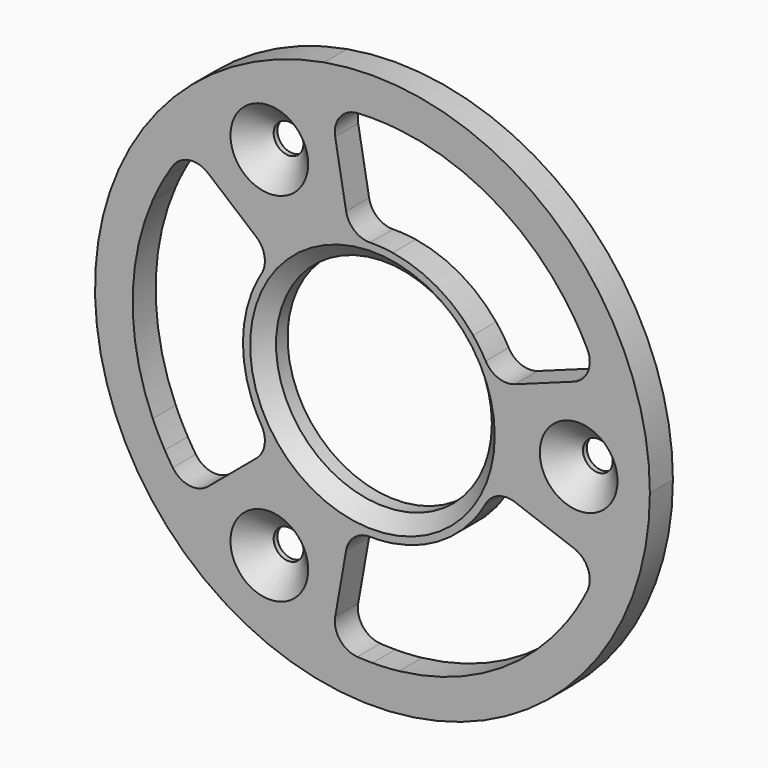
from build123d import *

# Parameters (mm, degrees)
F0_R     = 3.1
F0_R_2   = 22.5
F1_DEPTH = 6
F2_SIZE2 = 3
F2_SIZE  = 3
F3_SIZE2 = 5
F3_SIZE  = 5
F4_SIZE  = 5
F5_SIZE2 = 5
F5_SIZE  = 5


with BuildPart() as f1:
    # F0 (on Front) → F1 (new body)
    with BuildSketch(Plane.XZ):
        with BuildLine():
            ThreePointArc((-10.045547, 56.971129), (-37.185263, -44.315671), (57.85, 0))
            ThreePointArc((57.85, 0), (37.185263, 44.315671), (-10.045547, 56.971129))
        make_face()
        with Locations((-21.5, -37.239092)):
            Circle(F0_R, mode=Mode.SUBTRACT)
        with BuildLine():
            ThreePointArc((-23.382686, 13.5), (-24.368717, 11.626075), (-25.204864, 9.680642))
            ThreePointArc((-25.204864, 9.680642), (-27, 0), (-25.204864, -9.680642))
            ThreePointArc((-25.204864, -9.680642), (-24.368717, -11.626075), (-23.382686, -13.5))
            ThreePointArc((-23.382686, -13.5), (-23.262708, -13.705708), (-23.14092, -13.91035))
            ThreePointArc((-23.14092, -13.91035), (-22.49477, -17.311118), (-24.212337, -20.316563))
            Line((-24.212337, -20.316563), (-34.258549, -28.746336))
            ThreePointArc((-34.258549, -28.746336), (-38.184741, -29.865123), (-41.636097, -27.684571))
            ThreePointArc((-41.636097, -27.684571), (-42.489891, -26.35544), (-43.30127, -25))
            ThreePointArc((-43.30127, -25), (-44.625232, -22.551911), (-45.810926, -20.033948))
            ThreePointArc((-45.810926, -20.033948), (-50, 0), (-45.810926, 20.033948))
            ThreePointArc((-45.810926, 20.033948), (-44.625232, 22.551911), (-43.30127, 25))
            ThreePointArc((-43.30127, 25), (-42.489891, 26.35544), (-41.636097, 27.684571))
            ThreePointArc((-41.636097, 27.684571), (-38.184741, 29.865123), (-34.258549, 28.746336))
            Line((-34.258549, 28.746336), (-24.212337, 20.316563))
            ThreePointArc((-24.212337, 20.316563), (-22.49477, 17.311118), (-23.14092, 13.91035))
            ThreePointArc((-23.14092, 13.91035), (-23.262708, 13.705708), (-23.382686, 13.5))
        make_face(mode=Mode.SUBTRACT)
        Circle(F0_R_2, mode=Mode.SUBTRACT)
        with BuildLine():
            ThreePointArc((4.21875, -26.668374), (13.5, -23.382686), (20.986114, -16.987731))
            ThreePointArc((20.986114, -16.987731), (22.252835, -15.29089), (23.382686, -13.5))
            ThreePointArc((23.382686, -13.5), (23.500845, -13.293242), (23.617176, -13.085449))
            ThreePointArc((23.617176, -13.085449), (26.239253, -10.825483), (29.700828, -10.810217))
            Line((29.700828, -10.810217), (42.024332, -15.295606))
            ThreePointArc((42.024332, -15.295606), (44.956326, -18.136394), (44.79359, -22.215632))
            ThreePointArc((44.79359, -22.215632), (44.069426, -23.619605), (43.30127, -25))
            ThreePointArc((43.30127, -25), (41.843144, -27.370629), (40.255371, -29.656452))
            ThreePointArc((40.255371, -29.656452), (25, -43.30127), (5.555556, -49.690399))
            ThreePointArc((5.555556, -49.690399), (2.782088, -49.92254), (0, -50))
            ThreePointArc((0, -50), (-1.579535, -49.975044), (-3.157493, -49.900203))
            ThreePointArc((-3.157493, -49.900203), (-6.771585, -48.001517), (-7.765783, -44.041942))
            Line((-7.765783, -44.041942), (-5.488491, -31.12678))
            ThreePointArc((-5.488491, -31.12678), (-3.744483, -28.136601), (-0.476257, -26.995799))
            ThreePointArc((-0.476257, -26.995799), (-0.238138, -26.99895), (0, -27))
            ThreePointArc((0, -27), (2.115882, -26.916966), (4.21875, -26.668374))
        make_face(mode=Mode.SUBTRACT)
        with BuildLine():
            ThreePointArc((39.9, 0), (43, 3.1), (46.1, 0))
            ThreePointArc((46.1, 0), (43, -3.1), (39.9, 0))
        make_face(mode=Mode.SUBTRACT)
        with Locations((-21.5, 37.239092)):
            Circle(F0_R, mode=Mode.SUBTRACT)
        with BuildLine():
            ThreePointArc((20.986114, 16.987731), (13.5, 23.382686), (4.21875, 26.668374))
            ThreePointArc((4.21875, 26.668374), (1.878394, 26.934581), (-0.476257, 26.995799))
            ThreePointArc((-0.476257, 26.995799), (-3.744483, 28.136601), (-5.488491, 31.12678))
            Line((-5.488491, 31.12678), (-7.765783, 44.041942))
            ThreePointArc((-7.765783, 44.041942), (-6.771585, 48.001517), (-3.157493, 49.900203))
            ThreePointArc((-3.157493, 49.900203), (1.203611, 49.985511), (5.555556, 49.690399))
            ThreePointArc((5.555556, 49.690399), (25, 43.30127), (40.255371, 29.656452))
            ThreePointArc((40.255371, 29.656452), (42.686917, 26.035114), (44.79359, 22.215632))
            ThreePointArc((44.79359, 22.215632), (44.956326, 18.136394), (42.024332, 15.295606))
            Line((42.024332, 15.295606), (29.700828, 10.810217))
            ThreePointArc((29.700828, 10.810217), (26.239253, 10.825483), (23.617176, 13.085449))
            ThreePointArc((23.617176, 13.085449), (22.386834, 15.094028), (20.986114, 16.987731))
        make_face(mode=Mode.SUBTRACT)
    extrude(amount=F1_DEPTH)

    # F2
    f2_edges = [f1.edges().sort_by_distance(p)[0] for p in [
        (-22.5, -6, 0),
    ]]
    chamfer(f2_edges, length=F2_SIZE, length2=F2_SIZE2)

    # F3
    f3_edges = [f1.edges().sort_by_distance(p)[0] for p in [
        (-24.6, -6, 37.239092),
    ]]
    chamfer(f3_edges, length=F3_SIZE, length2=F3_SIZE2)

    # F4
    f4_edges = [f1.edges().sort_by_distance(p)[0] for p in [
        (-24.6, -6, -37.239092),
    ]]
    chamfer(f4_edges, length=F4_SIZE)

    # F5
    f5_edges = [f1.edges().sort_by_distance(p)[0] for p in [
        (39.9, -6, 0),
    ]]
    chamfer(f5_edges, length=F5_SIZE, length2=F5_SIZE2)


solid = f1.part
